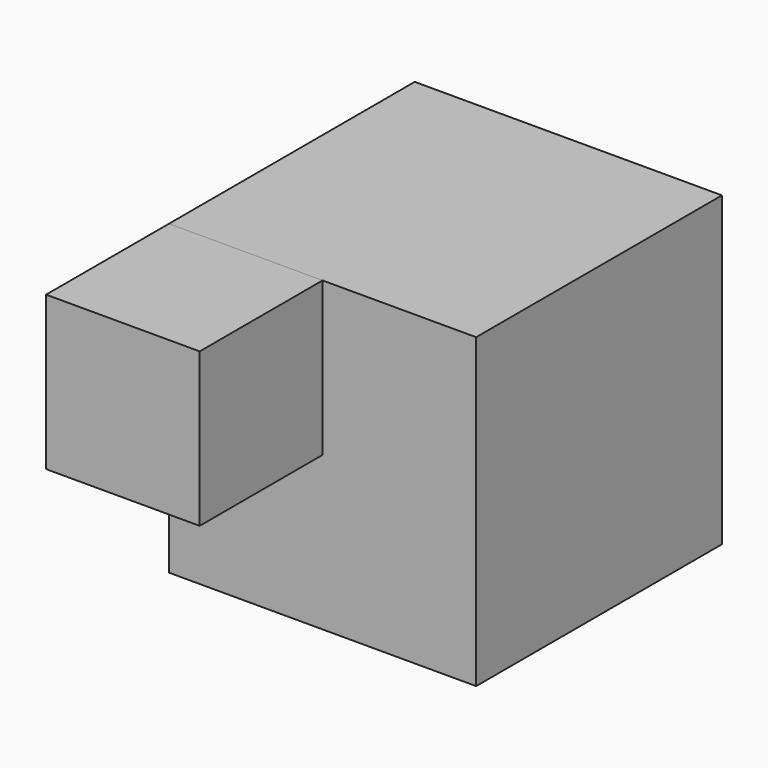
from build123d import *

# Parameters (mm, degrees)
F0_W     = 76.2
F0_H     = 76.2
F1_DEPTH = 76.2
F2_W     = 38.1
F2_H     = 38.1
F3_DEPTH = 38.1


with BuildPart() as f1:
    # F0 (on Front) → F1 (new body)
    with BuildSketch(Plane.XZ):
        with Locations((3.776283, 13.31814)):
            Rectangle(F0_W, F0_H)
    extrude(amount=F1_DEPTH)


with BuildPart() as f3:
    # F2 (on face) → F3 (new body)
    with BuildSketch(Plane.XZ.offset(76.2)):
        with Locations((-15.273717, 32.36814)):
            Rectangle(F2_W, F2_H)
    extrude(amount=F3_DEPTH)


solid = Compound([f1.part, f3.part])
